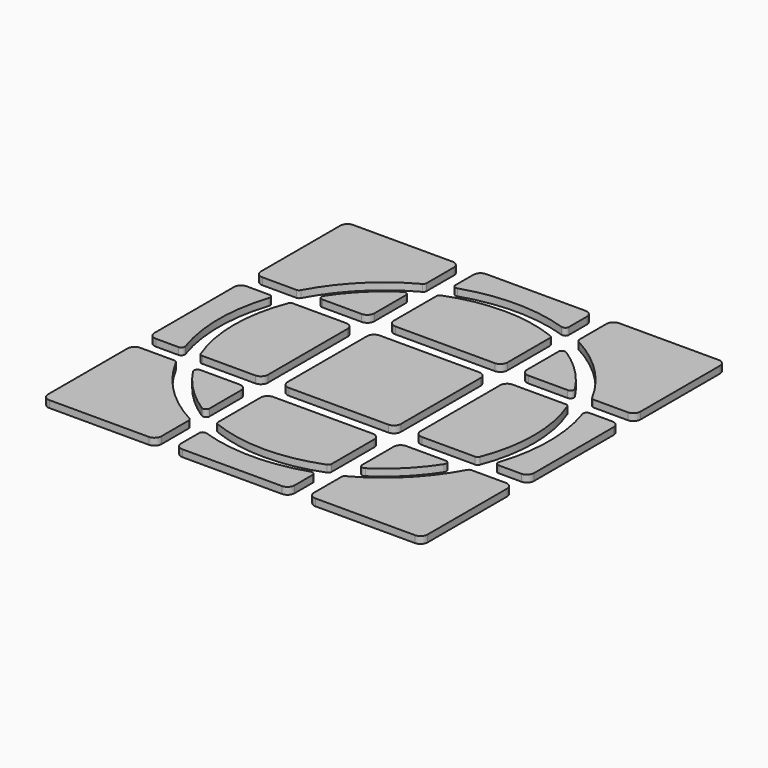
from build123d import *

# Parameters (mm, degrees)
F1_DEPTH = 1


with BuildPart() as f1:
    # F0 (on Top) → F1 (new body)
    with BuildSketch(Plane.XY):
        with BuildLine():
            ThreePointArc((-20.792705, 11.163485), (-16.68772, 16.68772), (-11.163485, 20.792705))
            ThreePointArc((-11.163485, 20.792705), (-10.970898, 20.976574), (-10.9, 21.233229))
            Line((-10.9, 21.233229), (-10.9, 26.1))
            ThreePointArc((-10.9, 26.1), (-11.192893, 26.807107), (-11.9, 27.1))
            Line((-11.9, 27.1), (-26.1, 27.1))
            ThreePointArc((-26.1, 27.1), (-26.807107, 26.807107), (-27.1, 26.1))
            Line((-27.1, 26.1), (-27.1, 11.9))
            ThreePointArc((-27.1, 11.9), (-26.807107, 11.192893), (-26.1, 10.9))
            Line((-26.1, 10.9), (-21.233229, 10.9))
            ThreePointArc((-21.233229, 10.9), (-20.976574, 10.970898), (-20.792705, 11.163485))
        make_face()
        with BuildLine():
            ThreePointArc((-10.9, 17.517134), (-11.161634, 17.956659), (-11.672727, 17.936205))
            ThreePointArc((-11.672727, 17.936205), (-15.132085, 15.132085), (-17.936205, 11.672727))
            ThreePointArc((-17.936205, 11.672727), (-17.956659, 11.161634), (-17.517134, 10.9))
            Line((-17.517134, 10.9), (-11.9, 10.9))
            ThreePointArc((-11.9, 10.9), (-11.192893, 11.192893), (-10.9, 11.9))
            Line((-10.9, 11.9), (-10.9, 17.517134))
        make_face()
        with BuildLine():
            Line((-22.870286, 8.1), (-26.1, 8.1))
            ThreePointArc((-26.1, 8.1), (-26.807107, 7.807107), (-27.1, 7.1))
            Line((-27.1, 7.1), (-27.1, -7.1))
            ThreePointArc((-27.1, -7.1), (-26.807107, -7.807107), (-26.1, -8.1))
            Line((-26.1, -8.1), (-22.870286, -8.1))
            ThreePointArc((-22.870286, -8.1), (-22.4648, -7.892542), (-22.395799, -7.442324))
            ThreePointArc((-22.395799, -7.442324), (-23.6, 0), (-22.395799, 7.442324))
            ThreePointArc((-22.395799, 7.442324), (-22.4648, 7.892542), (-22.870286, 8.1))
        make_face()
        with BuildLine():
            Line((-10.9, -7.1), (-10.9, 7.1))
            ThreePointArc((-10.9, 7.1), (-11.192893, 7.807107), (-11.9, 8.1))
            Line((-11.9, 8.1), (-19.469206, 8.1))
            ThreePointArc((-19.469206, 8.1), (-19.751244, 8.012861), (-19.934977, 7.781818))
            ThreePointArc((-19.934977, 7.781818), (-21.4, 0), (-19.934977, -7.781818))
            ThreePointArc((-19.934977, -7.781818), (-19.751244, -8.012861), (-19.469206, -8.1))
            Line((-19.469206, -8.1), (-11.9, -8.1))
            ThreePointArc((-11.9, -8.1), (-11.192893, -7.807107), (-10.9, -7.1))
        make_face()
        with BuildLine():
            ThreePointArc((-11.163485, -20.792705), (-16.68772, -16.68772), (-20.792705, -11.163485))
            ThreePointArc((-20.792705, -11.163485), (-20.976574, -10.970898), (-21.233229, -10.9))
            Line((-21.233229, -10.9), (-26.1, -10.9))
            ThreePointArc((-26.1, -10.9), (-26.807107, -11.192893), (-27.1, -11.9))
            Line((-27.1, -11.9), (-27.1, -26.1))
            ThreePointArc((-27.1, -26.1), (-26.807107, -26.807107), (-26.1, -27.1))
            Line((-26.1, -27.1), (-11.9, -27.1))
            ThreePointArc((-11.9, -27.1), (-11.192893, -26.807107), (-10.9, -26.1))
            Line((-10.9, -26.1), (-10.9, -21.233229))
            ThreePointArc((-10.9, -21.233229), (-10.970898, -20.976574), (-11.163485, -20.792705))
        make_face()
        with BuildLine():
            ThreePointArc((7.781818, -19.934977), (8.012861, -19.751244), (8.1, -19.469206))
            Line((8.1, -19.469206), (8.1, -11.9))
            ThreePointArc((8.1, -11.9), (7.807107, -11.192893), (7.1, -10.9))
            Line((7.1, -10.9), (-7.1, -10.9))
            ThreePointArc((-7.1, -10.9), (-7.807107, -11.192893), (-8.1, -11.9))
            Line((-8.1, -11.9), (-8.1, -19.469206))
            ThreePointArc((-8.1, -19.469206), (-8.012861, -19.751244), (-7.781818, -19.934977))
            ThreePointArc((-7.781818, -19.934977), (0, -21.4), (7.781818, -19.934977))
        make_face()
        with BuildLine():
            ThreePointArc((-17.517134, -10.9), (-17.956659, -11.161634), (-17.936205, -11.672727))
            ThreePointArc((-17.936205, -11.672727), (-15.132085, -15.132085), (-11.672727, -17.936205))
            ThreePointArc((-11.672727, -17.936205), (-11.161634, -17.956659), (-10.9, -17.517134))
            Line((-10.9, -17.517134), (-10.9, -11.9))
            ThreePointArc((-10.9, -11.9), (-11.192893, -11.192893), (-11.9, -10.9))
            Line((-11.9, -10.9), (-17.517134, -10.9))
        make_face()
        with BuildLine():
            ThreePointArc((-8.1, -26.1), (-7.807107, -26.807107), (-7.1, -27.1))
            Line((-7.1, -27.1), (7.1, -27.1))
            ThreePointArc((7.1, -27.1), (7.807107, -26.807107), (8.1, -26.1))
            Line((8.1, -26.1), (8.1, -22.870286))
            ThreePointArc((8.1, -22.870286), (7.892542, -22.4648), (7.442324, -22.395799))
            ThreePointArc((7.442324, -22.395799), (0, -23.6), (-7.442324, -22.395799))
            ThreePointArc((-7.442324, -22.395799), (-7.892542, -22.4648), (-8.1, -22.870286))
            Line((-8.1, -22.870286), (-8.1, -26.1))
        make_face()
        with BuildLine():
            ThreePointArc((20.792705, -11.163485), (16.68772, -16.68772), (11.163485, -20.792705))
            ThreePointArc((11.163485, -20.792705), (10.970898, -20.976574), (10.9, -21.233229))
            Line((10.9, -21.233229), (10.9, -26.1))
            ThreePointArc((10.9, -26.1), (11.192893, -26.807107), (11.9, -27.1))
            Line((11.9, -27.1), (26.1, -27.1))
            ThreePointArc((26.1, -27.1), (26.807107, -26.807107), (27.1, -26.1))
            Line((27.1, -26.1), (27.1, -11.9))
            ThreePointArc((27.1, -11.9), (26.807107, -11.192893), (26.1, -10.9))
            Line((26.1, -10.9), (21.233229, -10.9))
            ThreePointArc((21.233229, -10.9), (20.976574, -10.970898), (20.792705, -11.163485))
        make_face()
        with BuildLine():
            ThreePointArc((19.934977, 7.781818), (19.751244, 8.012861), (19.469206, 8.1))
            Line((19.469206, 8.1), (11.9, 8.1))
            ThreePointArc((11.9, 8.1), (11.192893, 7.807107), (10.9, 7.1))
            Line((10.9, 7.1), (10.9, -7.1))
            ThreePointArc((10.9, -7.1), (11.192893, -7.807107), (11.9, -8.1))
            Line((11.9, -8.1), (19.469206, -8.1))
            ThreePointArc((19.469206, -8.1), (19.751244, -8.012861), (19.934977, -7.781818))
            ThreePointArc((19.934977, -7.781818), (21.4, 0), (19.934977, 7.781818))
        make_face()
        with BuildLine():
            ThreePointArc((10.9, -17.517134), (11.161634, -17.956659), (11.672727, -17.936205))
            ThreePointArc((11.672727, -17.936205), (15.132085, -15.132085), (17.936205, -11.672727))
            ThreePointArc((17.936205, -11.672727), (17.956659, -11.161634), (17.517134, -10.9))
            Line((17.517134, -10.9), (11.9, -10.9))
            ThreePointArc((11.9, -10.9), (11.192893, -11.192893), (10.9, -11.9))
            Line((10.9, -11.9), (10.9, -17.517134))
        make_face()
        with BuildLine():
            ThreePointArc((26.1, -8.1), (26.807107, -7.807107), (27.1, -7.1))
            Line((27.1, -7.1), (27.1, 7.1))
            ThreePointArc((27.1, 7.1), (26.807107, 7.807107), (26.1, 8.1))
            Line((26.1, 8.1), (22.870286, 8.1))
            ThreePointArc((22.870286, 8.1), (22.4648, 7.892542), (22.395799, 7.442324))
            ThreePointArc((22.395799, 7.442324), (23.6, 0), (22.395799, -7.442324))
            ThreePointArc((22.395799, -7.442324), (22.4648, -7.892542), (22.870286, -8.1))
            Line((22.870286, -8.1), (26.1, -8.1))
        make_face()
        with BuildLine():
            ThreePointArc((11.163485, 20.792705), (16.68772, 16.68772), (20.792705, 11.163485))
            ThreePointArc((20.792705, 11.163485), (20.976574, 10.970898), (21.233229, 10.9))
            Line((21.233229, 10.9), (26.1, 10.9))
            ThreePointArc((26.1, 10.9), (26.807107, 11.192893), (27.1, 11.9))
            Line((27.1, 11.9), (27.1, 26.1))
            ThreePointArc((27.1, 26.1), (26.807107, 26.807107), (26.1, 27.1))
            Line((26.1, 27.1), (11.9, 27.1))
            ThreePointArc((11.9, 27.1), (11.192893, 26.807107), (10.9, 26.1))
            Line((10.9, 26.1), (10.9, 21.233229))
            ThreePointArc((10.9, 21.233229), (10.970898, 20.976574), (11.163485, 20.792705))
        make_face()
        with BuildLine():
            ThreePointArc((-7.781818, 19.934977), (-8.012861, 19.751244), (-8.1, 19.469206))
            Line((-8.1, 19.469206), (-8.1, 11.9))
            ThreePointArc((-8.1, 11.9), (-7.807107, 11.192893), (-7.1, 10.9))
            Line((-7.1, 10.9), (7.1, 10.9))
            ThreePointArc((7.1, 10.9), (7.807107, 11.192893), (8.1, 11.9))
            Line((8.1, 11.9), (8.1, 19.469206))
            ThreePointArc((8.1, 19.469206), (8.012861, 19.751244), (7.781818, 19.934977))
            ThreePointArc((7.781818, 19.934977), (0, 21.4), (-7.781818, 19.934977))
        make_face()
        with BuildLine():
            ThreePointArc((17.517134, 10.9), (17.956659, 11.161634), (17.936205, 11.672727))
            ThreePointArc((17.936205, 11.672727), (15.132085, 15.132085), (11.672727, 17.936205))
            ThreePointArc((11.672727, 17.936205), (11.161634, 17.956659), (10.9, 17.517134))
            Line((10.9, 17.517134), (10.9, 11.9))
            ThreePointArc((10.9, 11.9), (11.192893, 11.192893), (11.9, 10.9))
            Line((11.9, 10.9), (17.517134, 10.9))
        make_face()
        with BuildLine():
            ThreePointArc((8.1, 26.1), (7.807107, 26.807107), (7.1, 27.1))
            Line((7.1, 27.1), (-7.1, 27.1))
            ThreePointArc((-7.1, 27.1), (-7.807107, 26.807107), (-8.1, 26.1))
            Line((-8.1, 26.1), (-8.1, 22.870286))
            ThreePointArc((-8.1, 22.870286), (-7.892542, 22.4648), (-7.442324, 22.395799))
            ThreePointArc((-7.442324, 22.395799), (0, 23.6), (7.442324, 22.395799))
            ThreePointArc((7.442324, 22.395799), (7.892542, 22.4648), (8.1, 22.870286))
            Line((8.1, 22.870286), (8.1, 26.1))
        make_face()
        with BuildLine():
            Line((7.1, 8.1), (-7.1, 8.1))
            ThreePointArc((-7.1, 8.1), (-7.807107, 7.807107), (-8.1, 7.1))
            Line((-8.1, 7.1), (-8.1, -7.1))
            ThreePointArc((-8.1, -7.1), (-7.807107, -7.807107), (-7.1, -8.1))
            Line((-7.1, -8.1), (7.1, -8.1))
            ThreePointArc((7.1, -8.1), (7.807107, -7.807107), (8.1, -7.1))
            Line((8.1, -7.1), (8.1, 7.1))
            ThreePointArc((8.1, 7.1), (7.807107, 7.807107), (7.1, 8.1))
        make_face()
    extrude(amount=F1_DEPTH)


solid = f1.part
